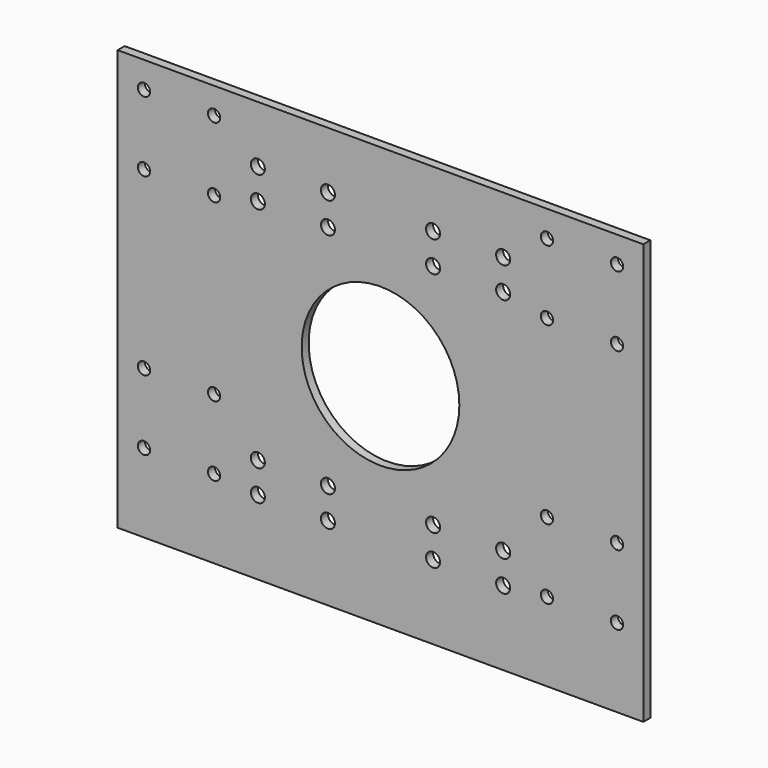
from build123d import *

# Parameters (mm, degrees)
F0_W     = 600
F0_H     = 480
F0_R     = 7
F0_R_2   = 8
F0_R_3   = 90
F1_DEPTH = 10


with BuildPart() as f1:
    # F0 (on Front) → F1 (new body)
    with BuildSketch(Plane.XZ):
        with Locations((0, -10)):
            Rectangle(F0_W, F0_H)
        with Locations((-270, -160)):
            Circle(F0_R, mode=Mode.SUBTRACT)
        with Locations((-190, -160)):
            Circle(F0_R, mode=Mode.SUBTRACT)
        with Locations((-140, -165)):
            Circle(F0_R_2, mode=Mode.SUBTRACT)
        with Locations((-60, -165)):
            Circle(F0_R_2, mode=Mode.SUBTRACT)
        with Locations((-270, -80)):
            Circle(F0_R, mode=Mode.SUBTRACT)
        with Locations((-190, -80)):
            Circle(F0_R, mode=Mode.SUBTRACT)
        with Locations((-140, -130)):
            Circle(F0_R_2, mode=Mode.SUBTRACT)
        with Locations((-60, -130)):
            Circle(F0_R_2, mode=Mode.SUBTRACT)
        with Locations((60, -165)):
            Circle(F0_R_2, mode=Mode.SUBTRACT)
        with Locations((140, -165)):
            Circle(F0_R_2, mode=Mode.SUBTRACT)
        with Locations((190, -160)):
            Circle(F0_R, mode=Mode.SUBTRACT)
        with Locations((270, -160)):
            Circle(F0_R, mode=Mode.SUBTRACT)
        with Locations((60, -130)):
            Circle(F0_R_2, mode=Mode.SUBTRACT)
        with Locations((140, -130)):
            Circle(F0_R_2, mode=Mode.SUBTRACT)
        with Locations((190, -80)):
            Circle(F0_R, mode=Mode.SUBTRACT)
        with Locations((270, -80)):
            Circle(F0_R, mode=Mode.SUBTRACT)
        with Locations((-270, 120)):
            Circle(F0_R, mode=Mode.SUBTRACT)
        with Locations((-190, 120)):
            Circle(F0_R, mode=Mode.SUBTRACT)
        with Locations((-270, 200)):
            Circle(F0_R, mode=Mode.SUBTRACT)
        with Locations((-190, 200)):
            Circle(F0_R, mode=Mode.SUBTRACT)
        with Locations((-140, 130)):
            Circle(F0_R_2, mode=Mode.SUBTRACT)
        with Locations((-140, 165)):
            Circle(F0_R_2, mode=Mode.SUBTRACT)
        with Locations((-60, 130)):
            Circle(F0_R_2, mode=Mode.SUBTRACT)
        with Locations((-60, 165)):
            Circle(F0_R_2, mode=Mode.SUBTRACT)
        Circle(F0_R_3, mode=Mode.SUBTRACT)
        with Locations((60, 130)):
            Circle(F0_R_2, mode=Mode.SUBTRACT)
        with Locations((60, 165)):
            Circle(F0_R_2, mode=Mode.SUBTRACT)
        with Locations((140, 130)):
            Circle(F0_R_2, mode=Mode.SUBTRACT)
        with Locations((140, 165)):
            Circle(F0_R_2, mode=Mode.SUBTRACT)
        with Locations((190, 120)):
            Circle(F0_R, mode=Mode.SUBTRACT)
        with Locations((270, 120)):
            Circle(F0_R, mode=Mode.SUBTRACT)
        with Locations((190, 200)):
            Circle(F0_R, mode=Mode.SUBTRACT)
        with Locations((270, 200)):
            Circle(F0_R, mode=Mode.SUBTRACT)
    extrude(amount=F1_DEPTH)


solid = f1.part
